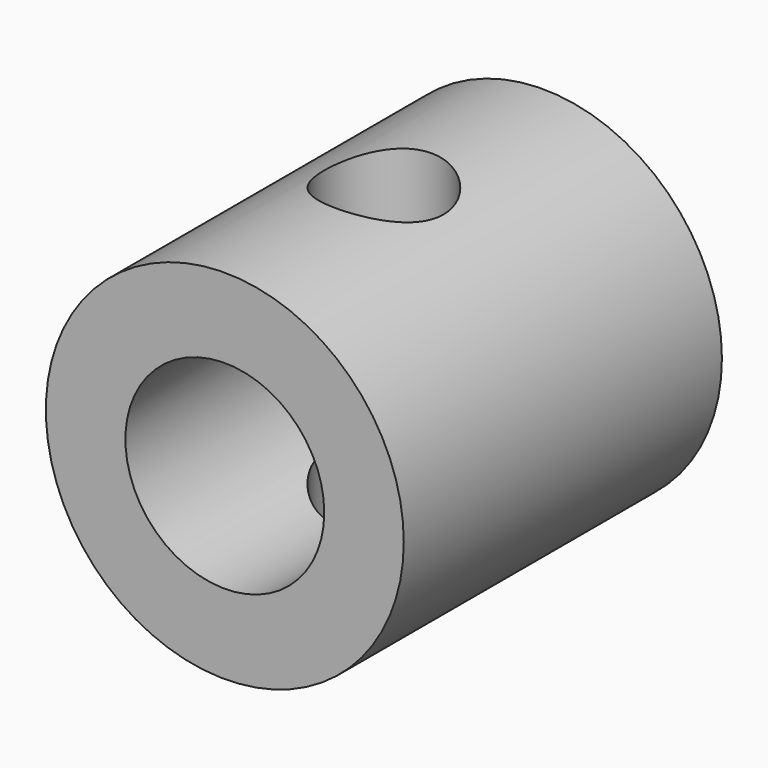
from build123d import *

# Parameters (mm, degrees)
F1_R          = 2.25
F1_R_2        = 1.25
F3_DEPTH      = 2.5
F2_R          = 0.75
F4_DEPTH      = 2.251
F4_DEPTH_BACK = 2.251


with BuildPart() as f3:
    # F1 (on Front) → F3 (new body, symmetric)
    with BuildSketch(Plane.XZ):
        Circle(F1_R)
        Circle(F1_R_2, mode=Mode.SUBTRACT)
    extrude(amount=F3_DEPTH, both=True)

    # F2 (on Top) → F4 (cut, two sides)
    with BuildSketch(Plane.XY) as f4_sk:
        Circle(F2_R)
    extrude(amount=F4_DEPTH, mode=Mode.SUBTRACT)
    extrude(f4_sk.sketch, amount=-F4_DEPTH_BACK, mode=Mode.SUBTRACT)


solid = f3.part
